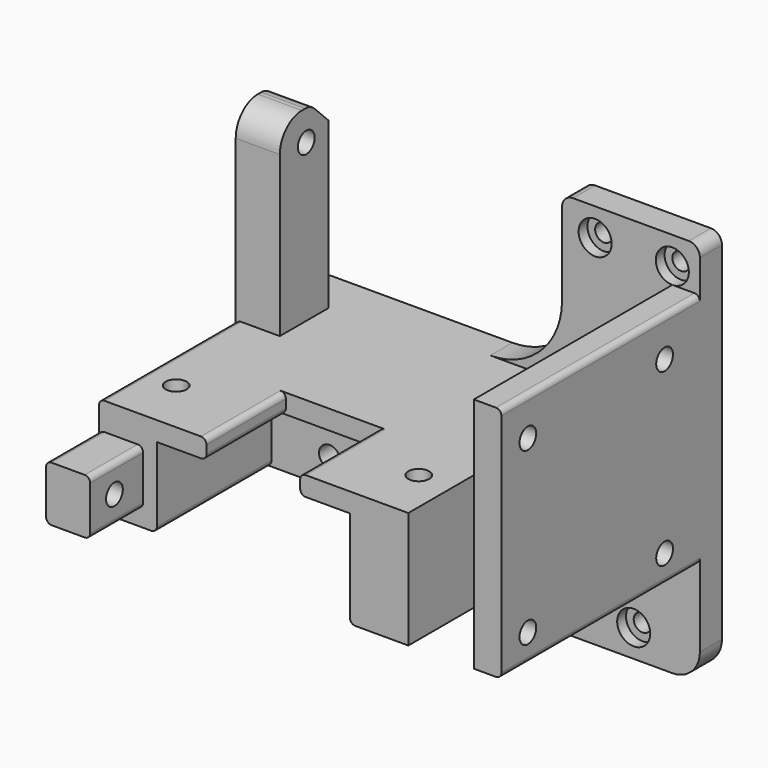
from build123d import *

# Parameters (mm, degrees)
PAD_DEPTH            = 70
SKETCH001_W          = 11.887794
SKETCH001_H          = 46.78
POCKET_DEPTH         = 70.001
POCKET001_DEPTH      = 30
SKETCH003_R          = 1.9
POCKET002_DEPTH      = 40.001
SKETCH004_W          = 17
SKETCH004_H          = 23.314381
POCKET003_DEPTH      = 40.001
SKETCH005_W          = 35
SKETCH005_H          = 57.974789
POCKET004_DEPTH      = 26
SKETCH006_W          = 45.255611
SKETCH006_H          = 30.428207
POCKET005_DEPTH      = 28
POCKET005_DEPTH_BACK = -100
SKETCH007_W          = 26.242121
SKETCH007_H          = 29.741062
POCKET006_DEPTH      = 45
SKETCH008_W          = 15.625622
SKETCH008_H          = 14.392597
SKETCH008_W_2        = 24.610352
SKETCH008_H_2        = 31.67345
POCKET007_DEPTH      = 45
SKETCH009_R          = 1.9
POCKET008_DEPTH      = 13
SKETCH010_R          = 1.6
POCKET009_DEPTH      = 5
SKETCH014_W          = 10
SKETCH014_H          = 15
PAD001_DEPTH         = 23
SKETCH015_W          = 11
SKETCH015_H          = 38.184422
SKETCH015_W_2        = 19.881198
SKETCH015_H_2        = 10
PAD002_DEPTH         = 8
SKETCH013_R          = 1.9
POCKET010_DEPTH      = 17
SKETCH011_R          = 1.9
POCKET011_DEPTH      = 15
PAD003_DEPTH         = 5
SKETCH017_R          = 3
POCKET012_DEPTH      = 2
CHAMFER_SIZE         = 4
FILLET_R             = 5
FILLET001_R          = 1
FILLET002_R          = 1
FILLET003_R          = 1
FILLET004_R          = 1
FILLET005_R          = 5
FILLET006_R          = 1
FILLET007_R          = 2
FILLET008_R          = 1
FILLET009_R          = 13
FILLET010_R          = 1
FILLET011_R          = 3


with BuildPart() as part:
    # Sketch → Pad (new body)
    with BuildSketch(Plane.XY):
        Polygon((0, 0), (45, 0), (45, -50), (-28, -50), (-28, 0), align=None)
    extrude(amount=PAD_DEPTH)

    # Sketch001 (on Face7 of Pad) → Pocket (cut, through all)
    with BuildSketch(Plane.XY.offset(70)):
        with Locations((34.056103, -28.39)):
            Rectangle(SKETCH001_W, SKETCH001_H)
    extrude(amount=-POCKET_DEPTH, mode=Mode.SUBTRACT)

    # Sketch002 (on Face5 of Pocket) → Pocket001 (cut)
    with BuildSketch(Plane.XY.offset(70)):
        Polygon((30, -5), (30, -65.096024), (-40.783405, -65.096024), (-40.783405, 12.994774), (20, 12.994774), (20, -5), align=None)
    extrude(amount=-POCKET001_DEPTH, mode=Mode.SUBTRACT)

    # Sketch003 (on Face6 of Pocket001) → Pocket002 (cut, through all)
    with BuildSketch(Plane.XY.offset(40)):
        with Locations((-22, -40)):
            Circle(SKETCH003_R)
        with Locations((22, -40)):
            Circle(SKETCH003_R)
    extrude(amount=-POCKET002_DEPTH, mode=Mode.SUBTRACT)

    # Sketch004 (on Face6 of Pocket002) → Pocket003 (cut, through all)
    with BuildSketch(Plane.XY.offset(40)):
        with Locations((0, -43.65719)):
            Rectangle(SKETCH004_W, SKETCH004_H)
    extrude(amount=-POCKET003_DEPTH, mode=Mode.SUBTRACT)

    # Sketch005 (on Face13 of Pocket003) → Pocket004 (cut)
    with BuildSketch(Plane.XZ.offset(50)):
        with Locations((0, 7.512606)):
            Rectangle(SKETCH005_W, SKETCH005_H)
    extrude(amount=-POCKET004_DEPTH, mode=Mode.SUBTRACT)

    # Sketch006 (on Face11 of Pocket004) → Pocket005 (cut, two sides)
    with BuildSketch(Plane.XZ.offset(24)) as pocket005_sk:
        with Locations((-10.127806, 6.785896)):
            Rectangle(SKETCH006_W, SKETCH006_H)
    extrude(amount=-POCKET005_DEPTH, mode=Mode.SUBTRACT)
    extrude(pocket005_sk.sketch, amount=-POCKET005_DEPTH_BACK, mode=Mode.SUBTRACT)

    # Sketch007 (on Face12 of Pocket005) → Pocket006 (cut)
    with BuildSketch(Plane.XZ.offset(50)):
        with Locations((20.733142, 3.968048)):
            Rectangle(SKETCH007_W, SKETCH007_H)
    extrude(amount=-POCKET006_DEPTH, mode=Mode.SUBTRACT)

    # Sketch008 (on Face14 of Pocket006) → Pocket007 (cut)
    with BuildSketch(Plane.XZ.offset(50)):
        with Locations((42.909006, 69.196298)):
            Rectangle(SKETCH008_W, SKETCH008_H)
        with Locations((46.359665, 3.163275)):
            Rectangle(SKETCH008_W_2, SKETCH008_H_2)
    extrude(amount=-POCKET007_DEPTH, mode=Mode.SUBTRACT)

    # Sketch009 (on Face3 of Pocket007) → Pocket008 (cut)
    with BuildSketch(Plane.YZ.offset(45)):
        with Locations((-44, 55)):
            Circle(SKETCH009_R)
        with Locations((-13, 24)):
            Circle(SKETCH009_R)
        with Locations((-13, 55)):
            Circle(SKETCH009_R)
        with Locations((-44, 24)):
            Circle(SKETCH009_R)
    extrude(amount=-POCKET008_DEPTH, mode=Mode.SUBTRACT)

    # Sketch010 (on Face1 of Pocket008) → Pocket009 (cut)
    with BuildSketch(Plane(origin=(0, 0, 0), x_dir=(-1, 0, 0), z_dir=(0, 1, 0))):
        with Locations((-33, 5)):
            Circle(SKETCH010_R)
        with Locations((-40, 65)):
            Circle(SKETCH010_R)
        with Locations((-26, 65)):
            Circle(SKETCH010_R)
    extrude(amount=-POCKET009_DEPTH, mode=Mode.SUBTRACT)

    # Sketch014 (on Face4 of Pocket009) → Pad001 (join)
    with BuildSketch(Plane.YZ.offset(45)):
        with Locations((-30, 32.5)):
            Rectangle(SKETCH014_W, SKETCH014_H)
    extrude(amount=-PAD001_DEPTH)

    # Sketch015 (on Face29 of Pad001) → Pad002 (join)
    with BuildSketch(Plane(origin=(-28, 0, 0), x_dir=(0, -1, 0), z_dir=(-1, 0, 0))):
        with Locations((13.5, 54.907789)):
            Rectangle(SKETCH015_W, SKETCH015_H)
        with Locations((52.059401, 30)):
            Rectangle(SKETCH015_W_2, SKETCH015_H_2)
    extrude(amount=-PAD002_DEPTH)

    # Sketch013 (on Face19 of Pad002) → Pocket010 (cut)
    with BuildSketch(Plane.XZ.offset(24)):
        with Locations((-7, 27)):
            Circle(SKETCH013_R)
        with Locations((7, 27)):
            Circle(SKETCH013_R)
    extrude(amount=-POCKET010_DEPTH, mode=Mode.SUBTRACT)

    # Sketch011 (on Face29 of Pad002) → Pocket011 (cut)
    with BuildSketch(Plane(origin=(-28, 0, 0), x_dir=(0, -1, 0), z_dir=(-1, 0, 0))):
        with Locations((56.5, 30)):
            Circle(SKETCH011_R)
        with Locations((13, 68.5)):
            Circle(SKETCH011_R)
    extrude(amount=-POCKET011_DEPTH, mode=Mode.SUBTRACT)

    # Sketch016 (on Face1 of Pocket011) → Pad003 (join)
    with BuildSketch(Plane(origin=(0, 0, 0), x_dir=(-1, 0, 0), z_dir=(0, 1, 0))):
        Polygon((-12.5, 0), (5, 22), (-15.71, 22), align=None)
    extrude(amount=-PAD003_DEPTH)

    # Sketch017 (on Face28 of Pad003) → Pocket012 (cut)
    with BuildSketch(Plane.XZ.offset(5)):
        with Locations((26, 65)):
            Circle(SKETCH017_R)
        with Locations((33, 5)):
            Circle(SKETCH017_R)
        with Locations((40, 65)):
            Circle(SKETCH017_R)
    extrude(amount=-POCKET012_DEPTH, mode=Mode.SUBTRACT)

    # Chamfer
    chamfer_edges = [part.edges().sort_by_distance(p)[0] for p in [
        (-24, -8, 74),
    ]]
    chamfer(chamfer_edges, length=CHAMFER_SIZE)

    # Fillet
    fillet_edges = [part.edges().sort_by_distance(p)[0] for p in [
        (-24, -19, 74),
    ]]
    fillet(fillet_edges, radius=FILLET_R)

    # Fillet001
    fillet001_edges = [part.edges().sort_by_distance(p)[0] for p in [
        (-28, -34.5, 40),
    ]]
    fillet(fillet001_edges, radius=FILLET001_R)

    # Fillet002
    fillet002_edges = [part.edges().sort_by_distance(p)[0] for p in [
        (-28, -25, 22),
    ]]
    fillet(fillet002_edges, radius=FILLET002_R)

    # Fillet003
    fillet003_edges = [part.edges().sort_by_distance(p)[0] for p in [
        (-17.5, -37, 22),
    ]]
    fillet(fillet003_edges, radius=FILLET003_R)

    # Fillet004
    fillet004_edges = [part.edges().sort_by_distance(p)[0] for p in [
        (17.5, -37, 18.838579),
    ]]
    fillet(fillet004_edges, radius=FILLET004_R)

    # Fillet005
    fillet005_edges = [part.edges().sort_by_distance(p)[0] for p in [
        (45, -2.5, 0),
    ]]
    fillet(fillet005_edges, radius=FILLET005_R)

    # Fillet006
    fillet006_edges = [part.edges().sort_by_distance(p)[0] for p in [
        (45, -27.5, 19),
        (45, -27.5, 62),
    ]]
    fillet(fillet006_edges, radius=FILLET006_R)

    # Fillet007
    fillet007_edges = [part.edges().sort_by_distance(p)[0] for p in [
        (45, -2.5, 70),
        (20, -2.5, 70),
    ]]
    fillet(fillet007_edges, radius=FILLET007_R)

    # Fillet008
    fillet008_edges = [part.edges().sort_by_distance(p)[0] for p in [
        (-8.5, -41, 36.5),
        (8.5, -41, 36.5),
        (-8.5, -41, 40),
        (8.5, -41, 40),
    ]]
    fillet(fillet008_edges, radius=FILLET008_R)

    # Fillet009
    fillet009_edges = [part.edges().sort_by_distance(p)[0] for p in [
        (20, -2.5, 40),
    ]]
    fillet(fillet009_edges, radius=FILLET009_R)

    # Fillet010
    fillet010_edges = [part.edges().sort_by_distance(p)[0] for p in [
        (-28, -56, 35),
        (-20, -56, 35),
        (-20, -56, 25),
        (-28, -56, 25),
    ]]
    fillet(fillet010_edges, radius=FILLET010_R)

    # Fillet011
    fillet011_edges = [part.edges().sort_by_distance(p)[0] for p in [
        (-24, -12, 74),
    ]]
    fillet(fillet011_edges, radius=FILLET011_R)


solid = part.part
